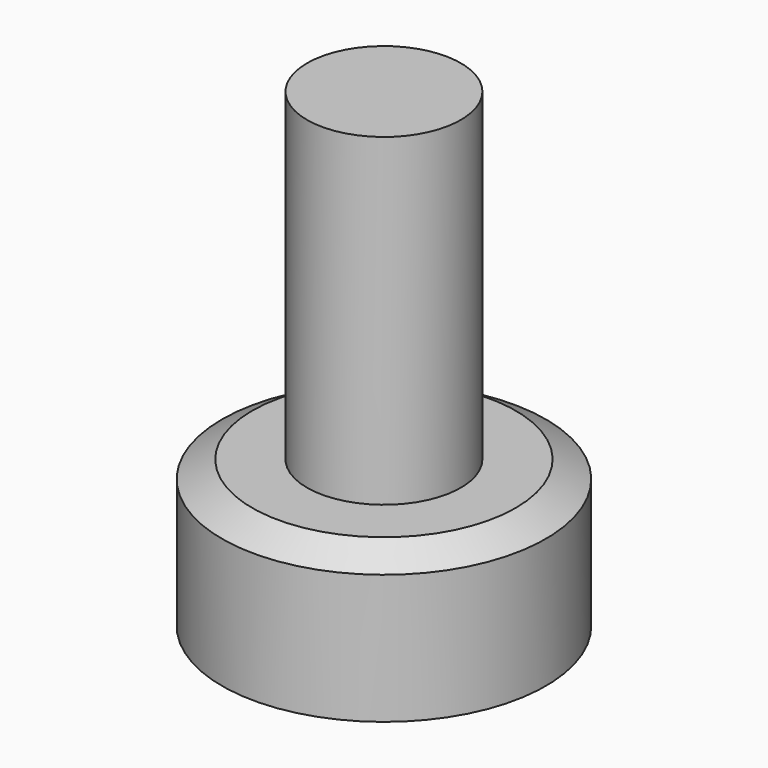
from build123d import *

# Parameters (mm, degrees)
F0_W   = 4.75
F0_H   = 20
F0_H_2 = 3
F0_H_3 = 1.0746234533


with BuildPart() as f1:
    # F0 (on Front) → F1 (revolve)
    with BuildSketch(Plane.XZ):
        with Locations((-22.9263077103, 19.0746234533)):
            Rectangle(F0_W, F0_H)
        Polygon((-25.3013077103, 8), (-30.5513077103, 8), (-30.5513077103, 0), (-25.3013077103, 0), (-25.3013077103, 5), align=None)
        Polygon((-28.6900052902, 9.0746234533), (-30.5513077103, 8), (-25.3013077103, 8), (-25.3013077103, 9.0746234533), align=None)
        with Locations((-22.9263077103, 6.5)):
            Rectangle(F0_W, F0_H_2)
        with Locations((-22.9263077103, 8.5373117267)):
            Rectangle(F0_W, F0_H_3)
    revolve(axis=Axis((-20.5513077103, 0, 19.0746234533), (0, 0, 1)))


solid = f1.part
